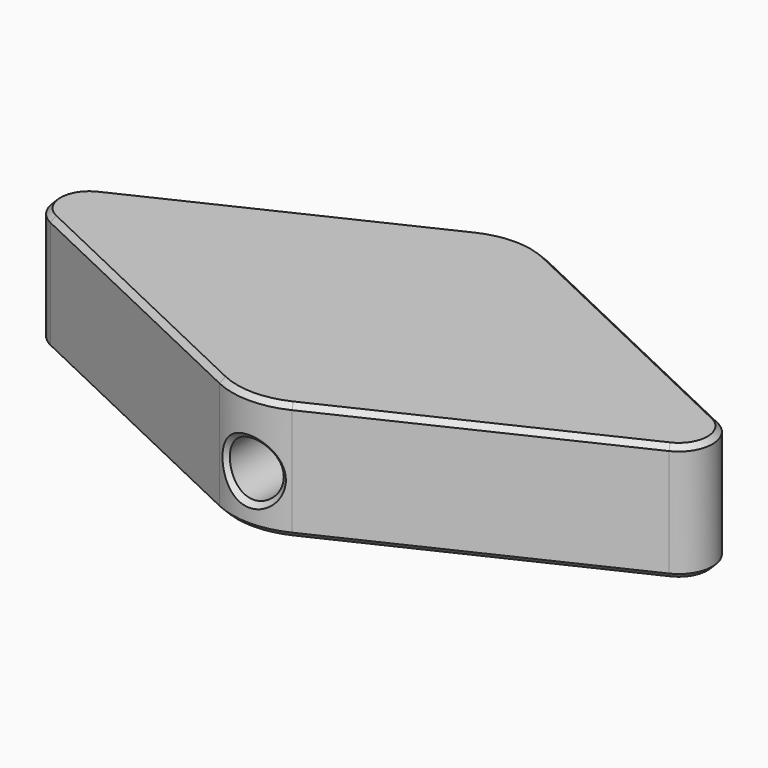
from build123d import *

# Parameters (mm, degrees)
PAD_DEPTH            = 14
SKETCH001_R          = 12.7
POCKET_DEPTH         = 10
SKETCH002_R          = 3.2
POCKET001_DEPTH      = 20.001
POCKET001_DEPTH_BACK = -20.001
CHAMFER_SIZE         = 0.6


with BuildPart() as part:
    # Sketch → Pad (new body)
    with BuildSketch(Plane.XY):
        with BuildLine():
            Line((-36.717816, 3.612355), (-4.294539, 19.030888))
            ThreePointArc((4.294539, 19.030888), (0, 20), (-4.294539, 19.030888))
            Line((4.294539, 19.030888), (36.717816, 3.612355))
            ThreePointArc((36.717816, -3.612355), (39, 0), (36.717816, 3.612355))
            Line((36.717816, -3.612355), (4.294539, -19.030888))
            ThreePointArc((-4.294539, -19.030888), (0, -20), (4.294539, -19.030888))
            Line((-4.294539, -19.030888), (-36.717816, -3.612355))
            ThreePointArc((-36.717816, 3.612355), (-39, 0), (-36.717816, -3.612355))
        make_face()
    extrude(amount=PAD_DEPTH)

    # Sketch001 → Pocket (cut)
    with BuildSketch(Plane.XY):
        Circle(SKETCH001_R)
    extrude(amount=POCKET_DEPTH, mode=Mode.SUBTRACT)

    # Sketch002 → Pocket001 (cut, two sides)
    with BuildSketch(Plane(origin=(0, 0, -1), x_dir=(1, 0, 0), z_dir=(0, -1, 0))) as pocket001_sk:
        with Locations((0, 7)):
            Circle(SKETCH002_R)
    extrude(amount=-POCKET001_DEPTH, mode=Mode.SUBTRACT)
    extrude(pocket001_sk.sketch, amount=-POCKET001_DEPTH_BACK, mode=Mode.SUBTRACT)

    # Chamfer
    chamfer_edges = [part.edges().sort_by_distance(p)[0] for p in [
        (-20.506178, 11.321621, 0),
        (-39, 0, 0),
        (0, 20, 0),
        (-20.506178, -11.321621, 0),
        (20.506178, 11.321621, 0),
        (0, -20, 0),
        (39, 0, 0),
        (20.506178, -11.321621, 0),
        (-12.7, 0, 0),
        (-20.506178, 11.321621, 14),
        (0, 20, 14),
        (20.506178, 11.321621, 14),
        (39, 0, 14),
        (20.506178, -11.321621, 14),
        (0, -20, 14),
        (-20.506178, -11.321621, 14),
        (-39, 0, 14),
        (-3.2, -19.474175, 6),
        (-3.2, 19.474175, 6),
    ]]
    chamfer(chamfer_edges, length=CHAMFER_SIZE)


solid = part.part
